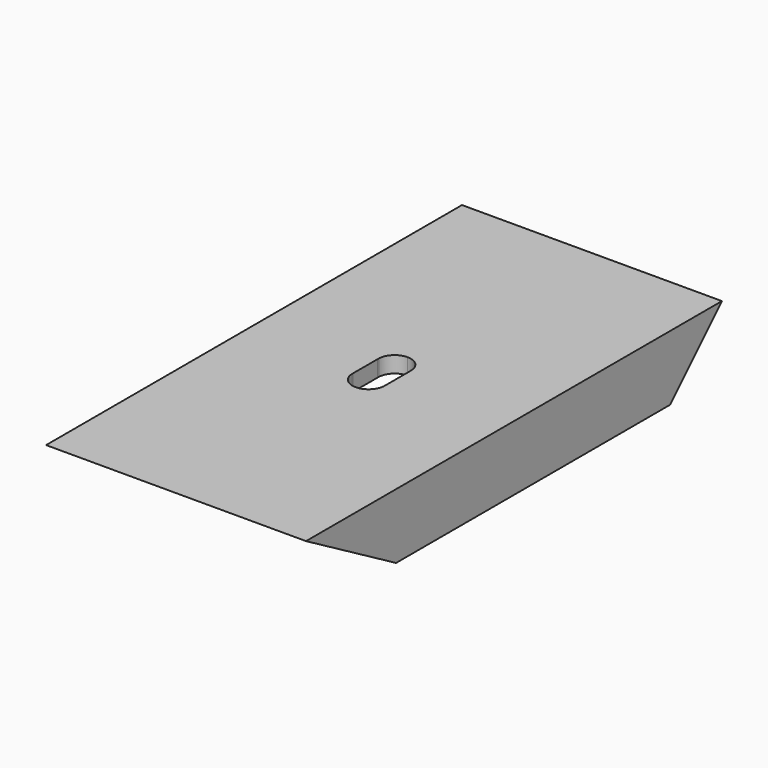
from build123d import *

# Parameters (mm, degrees)
F0_W     = 50.8
F0_H     = 101.6
F1_DEPTH = 3.175
F2_W     = 3.175
F2_H     = 101.6
F3_DEPTH = 9.525
F5_DEPTH = 50.8
F7_DEPTH = 25.4


with BuildPart() as f1:
    # F0 (on Top) → F1 (new body)
    with BuildSketch(Plane.XY):
        Rectangle(F0_W, F0_H)
    extrude(amount=F1_DEPTH)

    # F2 (on face) → F3 (join)
    with BuildSketch(Plane(origin=(0, 0, 0), x_dir=(1, 0, 0), z_dir=(0, 0, -1))):
        with Locations((-23.8125, 0)):
            Rectangle(F2_W, F2_H)
        with Locations((23.8125, 0)):
            Rectangle(F2_W, F2_H)
    extrude(amount=F3_DEPTH)

    # F4 (on face) → F5 (cut)
    with BuildSketch(Plane.YZ.offset(25.4)):
        Polygon((-28.8029547439, -9.525), (-50.8, 3.175), (-50.8, -9.525), align=None)
        Polygon((50.8, -9.525), (50.8, 3.175), (38.1, -9.525), align=None)
    extrude(amount=-F5_DEPTH, mode=Mode.SUBTRACT)

    # F6 (on face) → F7 (cut)
    with BuildSketch(Plane.XY.offset(3.175)):
        with BuildLine():
            Line((-0.4691980296, 0), (-0.4691980296, 6.35))
            ThreePointArc((-0.4691980296, 6.35), (-2.639728339, 5.492201583), (-3.6374224509, 3.3823138118))
            Line((-3.6374224509, 3.3823138118), (-3.6377601108, 2.9729125496))
            ThreePointArc((-3.6377601108, 2.9729125496), (-2.6416387475, 0.8595893825), (-0.4691980296, 0))
        make_face()
        with BuildLine():
            ThreePointArc((2.7045093513, 3.2655895149), (1.7436059936, 5.4518670042), (-0.4691980296, 6.35))
            Line((-0.4691980296, 6.35), (-0.4691980296, 0))
            ThreePointArc((-0.4691980296, 0), (1.7436059936, 0.8981329958), (2.7045093513, 3.0844104851))
            Line((2.7045093513, 3.0844104851), (2.7045093513, 3.2655895149))
        make_face()
        with BuildLine():
            Line((-0.4691980296, 0), (-0.4691980296, -6.35))
            ThreePointArc((-0.4691980296, -6.35), (1.7436059936, -5.4518670042), (2.7045093513, -3.2655895149))
            Line((2.7045093513, -3.2655895149), (2.7045093513, -3.0844104851))
            ThreePointArc((2.7045093513, -3.0844104851), (1.7436059936, -0.8981329958), (-0.4691980296, 0))
        make_face()
        with BuildLine():
            ThreePointArc((-3.6429054106, -3.2655895149), (-2.6820020528, -5.4518670042), (-0.4691980296, -6.35))
            Line((-0.4691980296, -6.35), (-0.4691980296, 0))
            ThreePointArc((-0.4691980296, 0), (-2.6801234201, -0.8963087269), (-3.6427516628, -3.0791754847))
            Line((-3.6427516628, -3.0791754847), (-3.6429054106, -3.2655895149))
        make_face()
        with BuildLine():
            Line((-0.4691980296, 0), (-0.4691980296, -6.35))
            ThreePointArc((-0.4691980296, -6.35), (1.7436059936, -5.4518670042), (2.7045093513, -3.2655895149))
            Line((2.7045093513, -3.2655895149), (2.7045093513, -3.0844104851))
            ThreePointArc((2.7045093513, -3.0844104851), (1.7436059936, -0.8981329958), (-0.4691980296, 0))
        make_face()
        with BuildLine():
            ThreePointArc((-3.6427516628, -3.0791754847), (-3.6441969498, -3.1723813712), (-3.6429054106, -3.2655895149))
            Line((-3.6429054106, -3.2655895149), (-3.6427516628, -3.0791754847))
        make_face()
        with BuildLine():
            ThreePointArc((2.7045093513, 3.0844104851), (1.7436059936, 0.8981329958), (-0.4691980296, 0))
            ThreePointArc((-0.4691980296, 0), (1.7436059936, -0.8981329958), (2.7045093513, -3.0844104851))
            Line((2.7045093513, -3.0844104851), (2.7045093513, 3.0844104851))
        make_face()
        with BuildLine():
            ThreePointArc((-3.6427516628, -3.0791754847), (-2.6801234201, -0.8963087269), (-0.4691980296, 0))
            ThreePointArc((-0.4691980296, 0), (-2.6416387475, 0.8595893825), (-3.6377601108, 2.9729125496))
            Line((-3.6377601108, 2.9729125496), (-3.6427516628, -3.0791754847))
        make_face()
    extrude(amount=-F7_DEPTH, mode=Mode.SUBTRACT)


solid = f1.part
